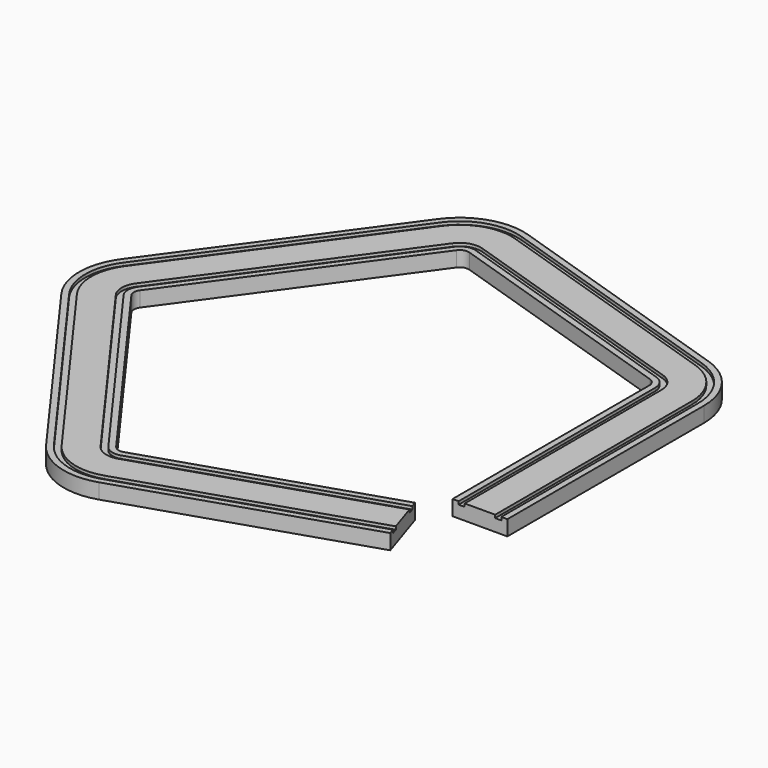
from build123d import *


with BuildPart() as f2:
    # F2: sweep along a path in F0
    with BuildLine(Plane.XY) as f2_path:
        Line((70, -38.6713670124), (70, 42.1394666243))
        ThreePointArc((70, 42.1394666243), (67.7082039325, 49.1928896518), (61.7082039325, 53.5521448199))
        Line((61.7082039325, 53.5521448199), (-18.44582472, 79.5957674615))
        ThreePointArc((-18.44582472, 79.5957674615), (-25.862232585, 79.5957674615), (-31.862232585, 75.2365122934))
        Line((-31.862232585, 75.2365122934), (-81.4001466275, 7.0534230275))
        ThreePointArc((-81.4001466275, 7.0534230275), (-83.691942695, 0), (-81.4001466275, -7.0534230275))
        Line((-81.4001466275, -7.0534230275), (-31.862232585, -75.2365122934))
        ThreePointArc((-31.862232585, -75.2365122934), (-25.862232585, -79.5957674615), (-18.44582472, -79.5957674615))
        Line((-18.44582472, -79.5957674615), (57.5640973422, -54.8986466743))
    # F1 (on Front) → F2 (sweep)
    with BuildSketch(Plane.XZ):
        Polygon((61, -2.5), (79, -2.5), (79, 2.5), (77, 2.5), (77, 1.5), (75, 1.5), (75, 2.5), (65, 2.5), (65, 1.5), (63, 1.5), (63, 2.5), (61, 2.5), align=None)
    sweep(path=f2_path.line)


solid = f2.part
